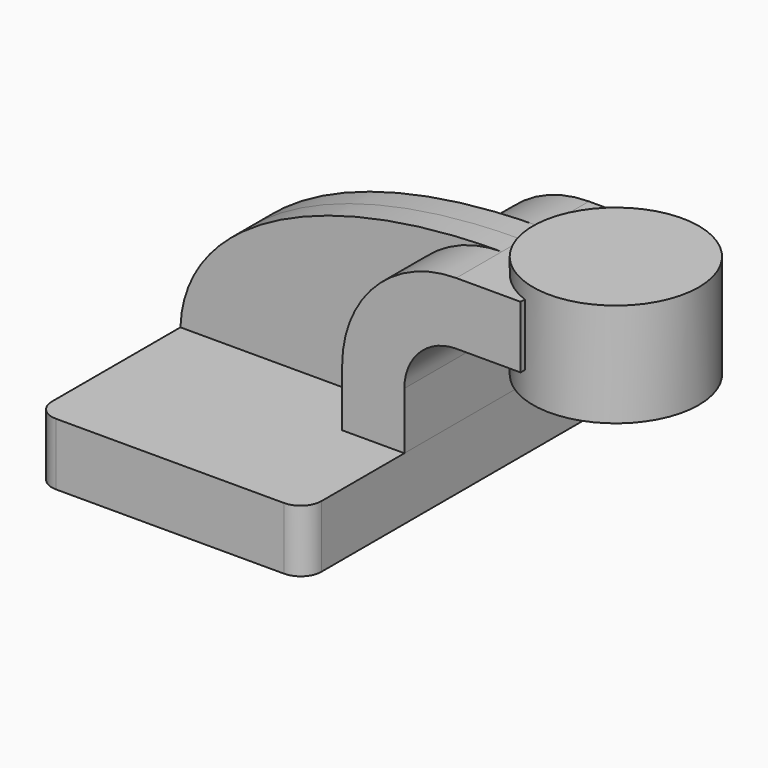
from build123d import *

# Parameters (mm, degrees)
F1_DEPTH = 63.5
F0_W     = 16.539878
F0_H     = 19.05
F2_DEPTH = 25.4
F3_DEPTH = 7.9375
F0_W_2   = 25.4
F0_H_2   = 31.75
F5_R     = 6.35


with BuildPart() as f1:
    # F0 (on Front) → F1 (new body, symmetric)
    with BuildSketch(Plane.XZ):
        Polygon((-41.275, 9.525), (-41.275, -9.525), (41.275, -9.525), (41.275, 9.525), (22.225, 9.525), align=None)
    extrude(amount=F1_DEPTH, both=True)

    # F5
    f5_edges = [f1.edges().sort_by_distance(p)[0] for p in [
        (-41.275, -63.5, 0),
        (41.275, -63.5, 0),
        (41.275, 63.5, 0),
        (-41.275, 63.5, 0),
    ]]
    fillet(f5_edges, radius=F5_R)


with BuildPart() as f2:
    # F0 (on Front) → F2 (new body, symmetric)
    with BuildSketch(Plane.XZ):
        with BuildLine():
            Line((22.225, 9.525), (41.275, 9.525))
            Line((41.275, 9.525), (41.275, 27.0002))
            ThreePointArc((41.275, 27.0002), (45.92468, 38.22552), (57.15, 42.8752))
            Line((57.15, 42.8752), (60.325, 42.8752))
            Line((60.325, 42.8752), (60.325, 61.9252))
            Line((60.325, 61.9252), (57.15, 61.9252))
            ThreePointArc((57.15, 61.9252), (32.454296, 51.695904), (22.225, 27.0002))
            Line((22.225, 27.0002), (22.225, 9.525))
        make_face()
        with Locations((68.594939, 52.4002)):
            Rectangle(F0_W, F0_H)
    extrude(amount=F2_DEPTH, both=True)

    # F0 (on Front) → F4 (revolve)
    with BuildSketch(Plane.XZ):
        with Locations((98.425, 50.8)):
            Rectangle(F0_W_2, F0_H_2)
    revolve(axis=Axis((85.725, 0, 50.8), (0, 0, 1)))


with BuildPart() as f3:
    # F0 (on Front) → F3 (new body, symmetric)
    with BuildSketch(Plane.XZ):
        with BuildLine():
            add(Edge.make_bspline(
                [(-41.275, 9.525), (-40.294466, 40.116504), (0, 61.942085), (57.15, 61.9252)],
                knots=[0, 0, 0, 0, 111.504536, 111.504536, 111.504536, 111.504536], degree=3))
            Line((-41.275, 9.525), (22.225, 9.525))
            Line((22.225, 9.525), (22.225, 27.0002))
            ThreePointArc((22.225, 27.0002), (32.454296, 51.695904), (57.15, 61.9252))
        make_face()
    extrude(amount=F3_DEPTH, both=True)


solid = Compound([f1.part, f2.part, f3.part])
